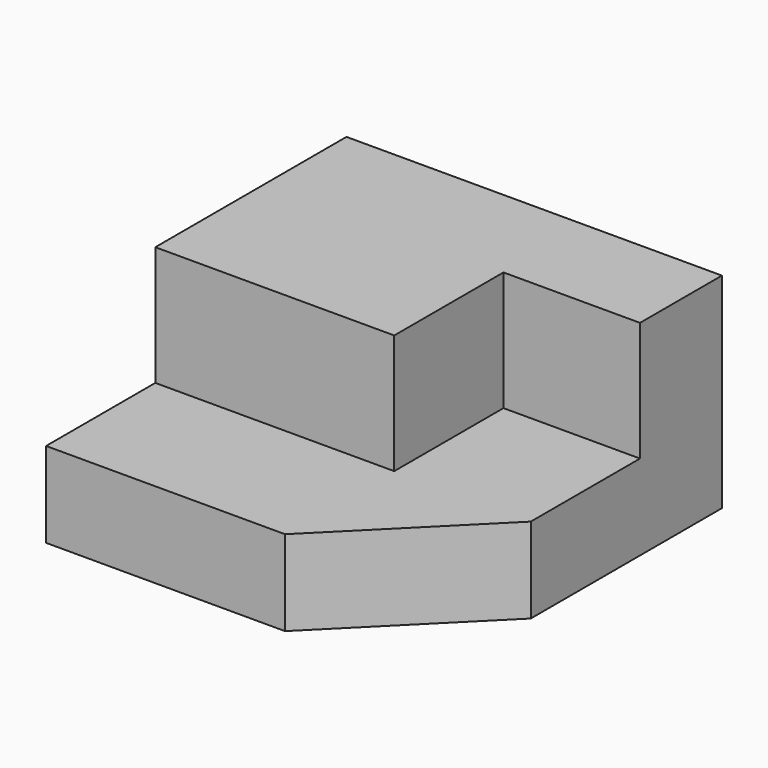
from build123d import *

# Parameters (mm, degrees)
F0_W     = 2794
F0_H     = 2794
F1_DEPTH = 635
F3_DEPTH = 889
F5_DEPTH = 635


with BuildPart() as f1:
    # F0 (on Top) → F1 (new body)
    with BuildSketch(Plane.XY):
        with Locations((1397, 1397)):
            Rectangle(F0_W, F0_H)
    extrude(amount=F1_DEPTH)

    # F2 (on face) → F3 (join)
    with BuildSketch(Plane.XY.offset(635)):
        Polygon((2794, 2794), (0, 2794), (0, 1016), (1778, 1016), (1778, 2032), (2794, 2032), align=None)
    extrude(amount=F3_DEPTH)

    # F4 (on face) → F5 (cut)
    with BuildSketch(Plane.XY.offset(635)):
        Polygon((2794, 1016), (1778, 0), (2794, 0), align=None)
    extrude(amount=-F5_DEPTH, mode=Mode.SUBTRACT)


solid = f1.part
